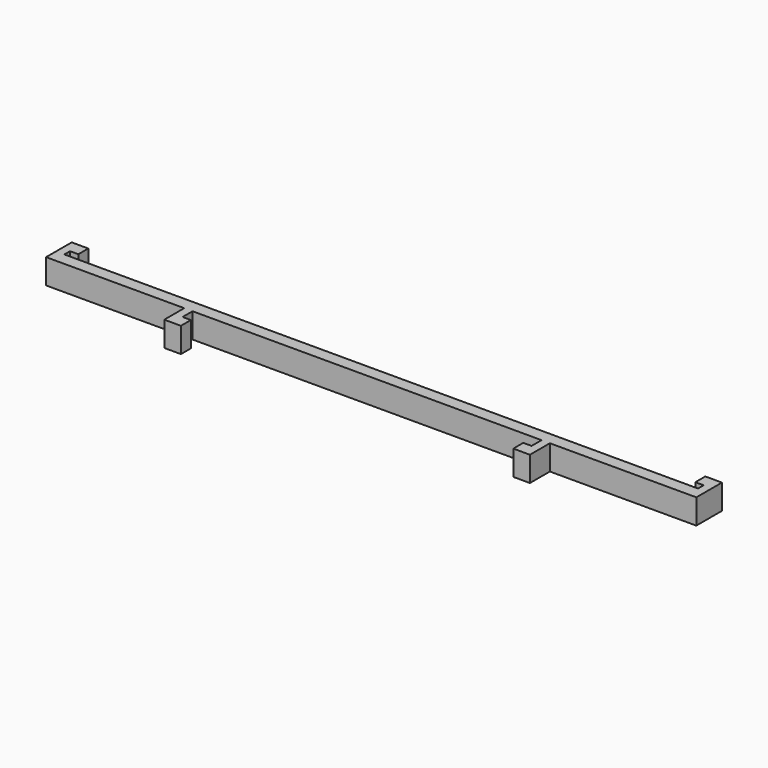
from build123d import *

# Parameters (mm, degrees)
F1_DEPTH = 6


with BuildPart() as f1:
    # F0 (on Top) → F1 (new body)
    with BuildSketch(Plane.XY):
        Polygon((-73.304564, 6.418628), (-73.304564, 9.418628), (-77.304564, 9.418628), (-77.304564, 1.718628), (-44.054564, 1.718628), (-44.054564, -4.281372), (-40.054564, -4.281372), (-40.054564, -1.281372), (-42.054564, -1.281372), (-42.054564, 1.718628), (41.945436, 1.718628), (41.945436, -1.281372), (39.945436, -1.281372), (39.945436, -4.281372), (43.945436, -4.281372), (43.945436, 1.718628), (79.195436, 1.718628), (79.195436, 9.418628), (75.195436, 9.418628), (75.195436, 6.418628), (77.195436, 6.418628), (77.195436, 4.718628), (-75.304564, 4.718628), (-75.304564, 6.418628), align=None)
    extrude(amount=F1_DEPTH)


solid = f1.part
